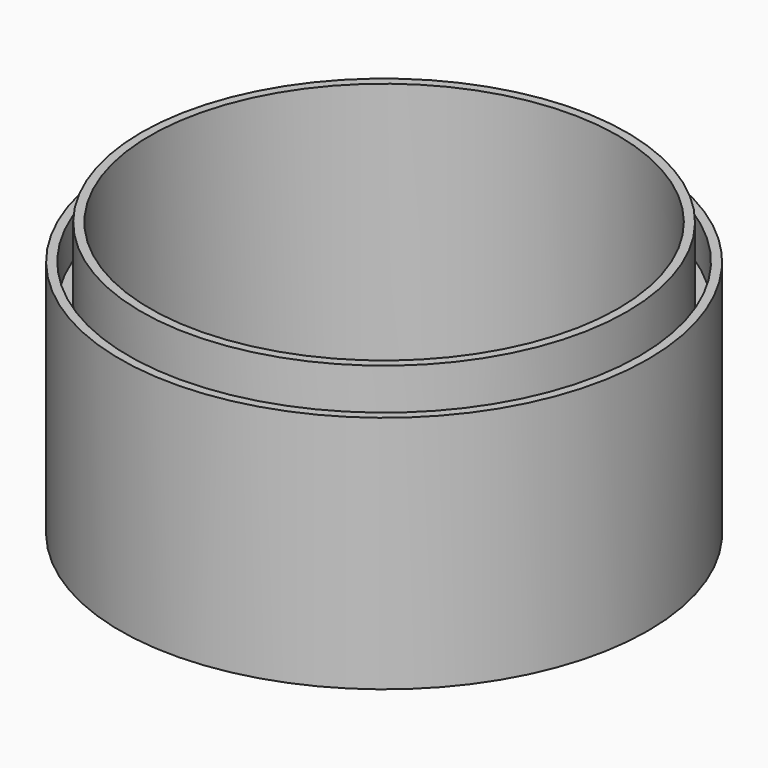
from build123d import *

# Parameters (mm, degrees)
SKETCH_R   = 53
SKETCH_R_2 = 2.5
PAD_DEPTH  = 5


with BuildPart() as part:
    # Sketch → Pad (new body)
    with BuildSketch(Plane.XY):
        Circle(SKETCH_R)
        Circle(SKETCH_R_2, mode=Mode.SUBTRACT)
    extrude(amount=PAD_DEPTH)

    # Sketch001 → Revolution (revolve)
    with BuildSketch(Plane.XZ):
        Polygon((53, 5), (47, 5), (47, 55), (48.75, 55), (48.75, 40), (51.25, 40), (51.25, 48), (53, 48), align=None)
    revolve(axis=Axis((0, 0, 0), (0, 0, 1)))


solid = part.part
